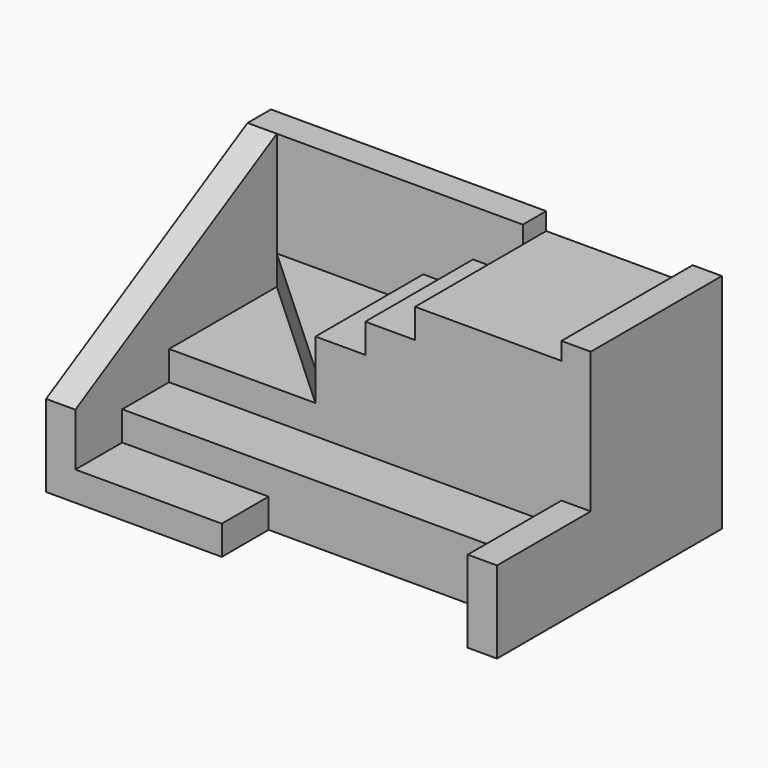
from build123d import *

# Parameters (mm, degrees)
F1_DEPTH  = 38
F3_DEPTH  = 25
F4_DEPTH  = 38
F0_W      = 25
F0_H      = 10
F5_DEPTH  = 5
F6_DEPTH  = 10
F0_W_2    = 8.5
F0_H_2    = 23
F7_DEPTH  = 25
F8_DEPTH  = 30
F9_DEPTH  = 20
F10_DEPTH = 15
F11_DEPTH = 35
F0_W_3    = 5
F0_H_3    = 28
F12_DEPTH = 38
F13_DEPTH = 14


with BuildPart() as f1:
    # F0 (on Top) → F1 (new body)
    with BuildSketch(Plane.XY):
        Polygon((-33.5, 19), (-38.5, 19), (-38.5, -24), (-33.5, -24), (-33.5, -14), (-33.5, -4), align=None)
    extrude(amount=F1_DEPTH)

    # F2 (on face) → F3 (cut)
    with BuildSketch(Plane.YZ.offset(-33.5)):
        Polygon((-24, 38), (-24, 14), (19, 38), align=None)
    extrude(amount=-F3_DEPTH, mode=Mode.SUBTRACT)

    # F0 (on Top) → F4 (join)
    with BuildSketch(Plane.XY):
        Polygon((8.5, 19), (8.5, 24), (-38.5, 24), (-38.5, 19), (-33.5, 19), (-8.5, 19), (0, 19), align=None)
    extrude(amount=F4_DEPTH)

    # F0 (on Top) → F5 (join)
    with BuildSketch(Plane.XY):
        with Locations((-21, -19)):
            Rectangle(F0_W, F0_H)
    extrude(amount=F5_DEPTH)

    # F0 (on Top) → F6 (join)
    with BuildSketch(Plane.XY):
        Polygon((33.5, -14), (33.5, -4), (8.5, -4), (0, -4), (-8.5, -4), (-33.5, -4), (-33.5, -14), (-8.5, -14), align=None)
    extrude(amount=F6_DEPTH)

    # F0 (on Top) → F7 (join)
    with BuildSketch(Plane.XY):
        with Locations((-4.25, 7.5)):
            Rectangle(F0_W_2, F0_H_2)
    extrude(amount=F7_DEPTH)

    # F0 (on Top) → F8 (join)
    with BuildSketch(Plane.XY):
        with Locations((4.25, 7.5)):
            Rectangle(F0_W_2, F0_H_2)
    extrude(amount=F8_DEPTH)

    # F0 (on Top) → F9 (join)
    with BuildSketch(Plane.XY):
        Polygon((-8.5, 19), (-33.5, 19), (-8.5, -4), align=None)
    extrude(amount=F9_DEPTH)

    # F0 (on Top) → F10 (join)
    with BuildSketch(Plane.XY):
        Polygon((-8.5, -4), (-33.5, 19), (-33.5, -4), align=None)
    extrude(amount=F10_DEPTH)

    # F0 (on Top) → F11 (join)
    with BuildSketch(Plane.XY):
        Polygon((33.5, -4), (33.5, 24), (8.5, 24), (8.5, 19), (8.5, -4), align=None)
    extrude(amount=F11_DEPTH)

    # F0 (on Top) → F12 (join)
    with BuildSketch(Plane.XY):
        with Locations((36, 10)):
            Rectangle(F0_W_3, F0_H_3)
    extrude(amount=F12_DEPTH)

    # F0 (on Top) → F13 (join)
    with BuildSketch(Plane.XY):
        Polygon((38.5, -24), (38.5, -4), (33.5, -4), (33.5, -14), (33.5, -24), align=None)
    extrude(amount=F13_DEPTH)


solid = f1.part
